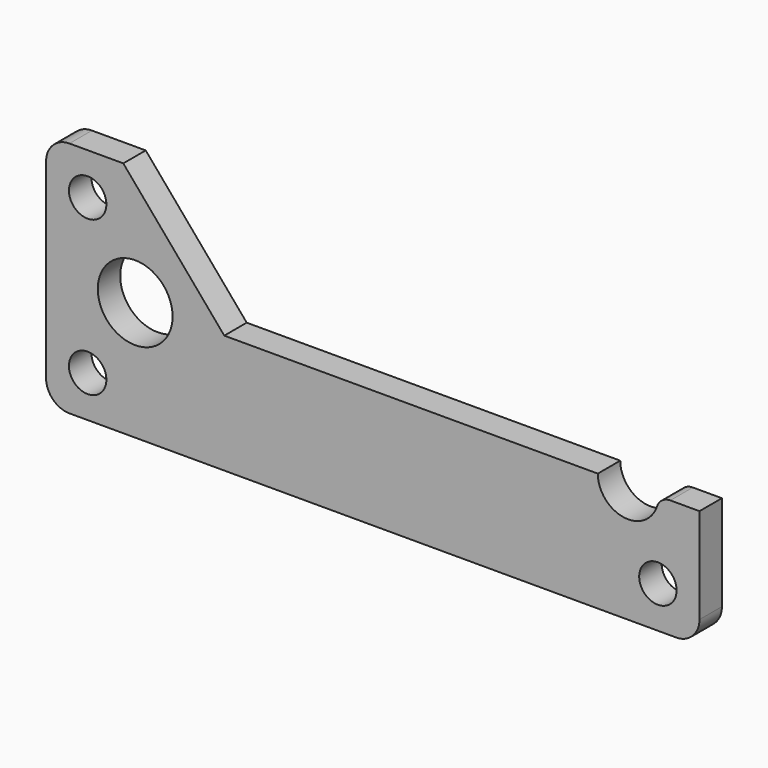
from build123d import *

# Parameters (mm, degrees)
F0_R     = 4
F0_R_2   = 8
F1_DEPTH = 6
F2_R     = 5
F3_R     = 3


with BuildPart() as f1:
    # F0 (on Front) → F1 (new body)
    with BuildSketch(Plane.XZ):
        with BuildLine():
            Line((-67.049116, 8.89), (-67.049116, 0))
            Line((-67.049116, 0), (72.650884, 0))
            Line((72.650884, 0), (72.650884, 25.4))
            Line((72.650884, 25.4), (63.910884, 25.4))
            ThreePointArc((63.910884, 25.4), (57.410884, 18.9), (50.910884, 25.4))
            Line((50.910884, 25.4), (-28.949116, 25.4))
            Line((-28.949116, 25.4), (-50.539116, 50.8))
            Line((-50.539116, 50.8), (-67.049116, 50.8))
            Line((-67.049116, 50.8), (-67.049116, 41.91))
            Line((-67.049116, 41.91), (-67.049116, 8.89))
        make_face()
        with Locations((-58.159116, 8.89)):
            Circle(F0_R, mode=Mode.SUBTRACT)
        with Locations((-47.999116, 25.4)):
            Circle(F0_R_2, mode=Mode.SUBTRACT)
        with Locations((63.760884, 8.89)):
            Circle(F0_R, mode=Mode.SUBTRACT)
        with Locations((-58.159116, 41.91)):
            Circle(F0_R, mode=Mode.SUBTRACT)
    extrude(amount=F1_DEPTH)

    # F2
    f2_edges = [f1.edges().sort_by_distance(p)[0] for p in [
        (-67.049116, -3, 50.8),
        (-67.049116, -3, 0),
        (72.650884, -3, 0),
    ]]
    fillet(f2_edges, radius=F2_R)

    # F3
    f3_edges = [f1.edges().sort_by_distance(p)[0] for p in [
        (63.910884, -3, 25.4),
    ]]
    fillet(f3_edges, radius=F3_R)


solid = f1.part
